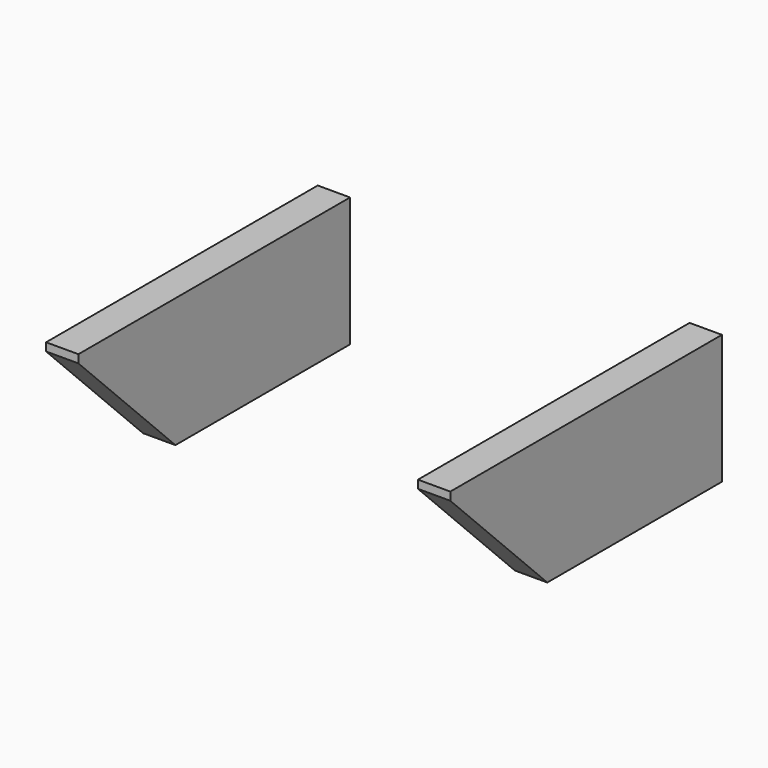
from build123d import *

# Parameters (mm, degrees)
BOX005_W        = 4
BOX005_H        = 42
BOX005_DEPTH    = 16
CHAMFER006_SIZE = 15
BOX004_W        = 4
BOX004_H        = 42
BOX004_DEPTH    = 16
CHAMFER_SIZE    = 15


with BuildPart() as chamfer006:
    # Box005 → Box005 (new body)
    with BuildSketch(Plane(origin=(41, -47, 25), x_dir=(1, 0, 0), z_dir=(0, 0, 1))):
        with Locations((2, 21)):
            Rectangle(BOX005_W, BOX005_H)
    extrude(amount=BOX005_DEPTH)

    # Chamfer006
    chamfer006_edges = [chamfer006.edges().sort_by_distance(p)[0] for p in [
        (43, -47, 25),
    ]]
    chamfer(chamfer006_edges, length=CHAMFER006_SIZE)


with BuildPart() as fusion014008:
    # Box004 → Box004 (new body)
    with BuildSketch(Plane(origin=(-5, -47, 25), x_dir=(1, 0, 0), z_dir=(0, 0, 1))):
        with Locations((2, 21)):
            Rectangle(BOX004_W, BOX004_H)
    extrude(amount=BOX004_DEPTH)

    # Chamfer
    chamfer_edges = [fusion014008.edges().sort_by_distance(p)[0] for p in [
        (-3, -47, 25),
    ]]
    chamfer(chamfer_edges, length=CHAMFER_SIZE)

    # Fusion014008: union Chamfer006
    add(chamfer006.part)


with BuildPart() as fusion014008_1:
    # Fusion014008 placement: moved
    add(fusion014008.part.moved(Location((0, -3, 0))))


solid = fusion014008_1.part
